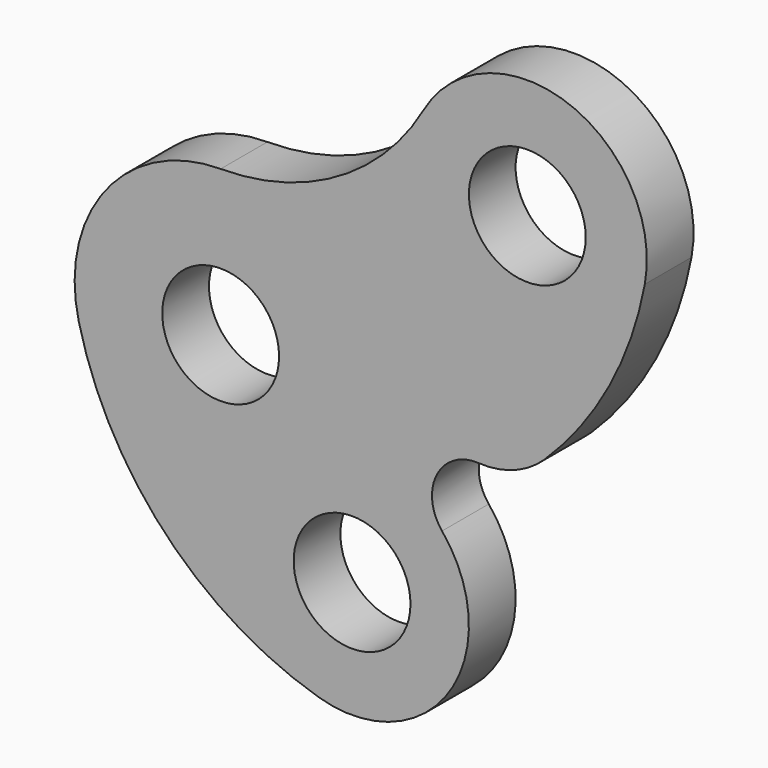
from build123d import *

# Parameters (mm, degrees)
F0_R     = 10
F1_DEPTH = 10


with BuildPart() as f1:
    # F0 (on Front) → F1 (new body)
    with BuildSketch(Plane.XZ):
        with BuildLine():
            ThreePointArc((0, 25), (-19.664959, 15.436625), (-24.284847, -5.93685))
            ThreePointArc((-24.284847, -5.93685), (-9.512511, -33.001447), (16.750607, -49.155795))
            ThreePointArc((16.750607, -49.155795), (39.169931, -41.050494), (37.904534, -17.244596))
            ThreePointArc((37.904534, -17.244596), (36.990811, -9.071889), (44.120823, -4.974213))
            ThreePointArc((44.120823, -4.974213), (50.230306, -4.058588), (55.452633, -0.758367))
            ThreePointArc((55.452633, -0.758367), (66.51285, 13.90815), (72.617387, 31.233557))
            ThreePointArc((72.617387, 31.233557), (59.558682, 54.211204), (34.729726, 45.154442))
            ThreePointArc((34.729726, 45.154442), (20.077073, 30.403596), (0, 25))
        make_face()
        with Locations((22.5, -30)):
            Circle(F0_R, mode=Mode.SUBTRACT)
        Circle(F0_R, mode=Mode.SUBTRACT)
        with Locations((52.5, 35)):
            Circle(F0_R, mode=Mode.SUBTRACT)
    extrude(amount=F1_DEPTH)


solid = f1.part
